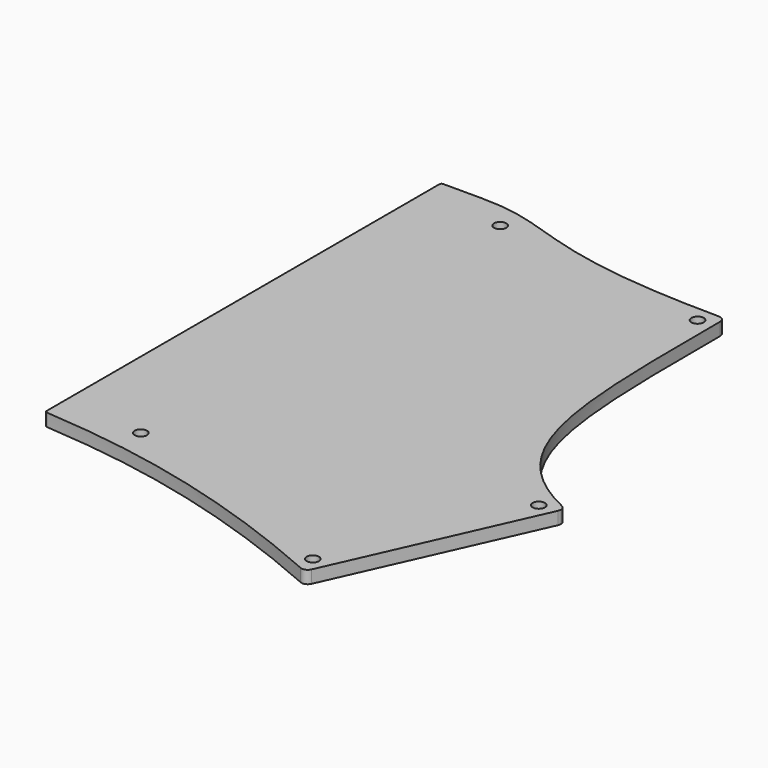
from build123d import *

# Parameters (mm, degrees)
PAD010_DEPTH    = 3
SKETCH045_R     = 1.45
POCKET015_DEPTH = 30
FILLET008_R     = 1.5
FILLET016_R     = 0.5


with BuildPart() as part:
    # Sketch034 → Pad010 (new body)
    with BuildSketch(Plane.XY):
        with BuildLine():
            add(Edge.make_bspline(
                [(76.2, -18.332251), (89.391212, -19.369368), (115.462334, -21.271145), (153.231854, -38.154949)],
                knots=[0, 0, 0, 0, 1, 1, 1, 1], degree=3))
            Line((153.231854, -38.154949), (175.310198, 11.234895))
            add(Edge.make_bspline(
                [(150.875, 88.9625), (150.875, 42.8625), (150.875, 22.157965), (175.310198, 11.234895)],
                knots=[0, 0, 0, 0, 1, 1, 1, 1], degree=3))
            add(Edge.make_bspline(
                [(85.725, 98.4875), (104.775, 98.4875), (104.775, 88.9625), (150.875, 88.9625)],
                knots=[0, 0, 0, 0, 1, 1, 1, 1], degree=3))
            Line((85.725, 98.4875), (76.2, 98.4875))
            Line((76.2, 98.4875), (76.2, -18.332251))
        make_face()
    extrude(amount=PAD010_DEPTH)

    # Sketch045 → Pocket015 (cut)
    with BuildSketch(Plane.XY):
        with Locations((-4.375, -4.375)):
            Circle(SKETCH045_R)
        with Locations((-4.375, 80.575)):
            Circle(SKETCH045_R)
        with Locations((151.401832, -33.366184)):
            Circle(SKETCH045_R)
        with Locations((170.521433, 9.404873)):
            Circle(SKETCH045_R)
        with Locations((147.25, 85.3375)):
            Circle(SKETCH045_R)
        with Locations((43.25, -13.9)):
            Circle(SKETCH045_R)
        with Locations((57.15, 92.085)):
            Circle(SKETCH045_R)
        with Locations((95.25, 92.085)):
            Circle(SKETCH045_R)
        with Locations((95.25, -13.9)):
            Circle(SKETCH045_R)
    extrude(amount=POCKET015_DEPTH, mode=Mode.SUBTRACT)

    # Fillet008
    fillet008_edges = [part.edges().sort_by_distance(p)[0] for p in [
        (150.875, 88.9625, 1.5),
        (175.310198, 11.234895, 1.5),
        (153.231854, -38.154949, 1.5),
    ]]
    fillet(fillet008_edges, radius=FILLET008_R)

    # Fillet016
    fillet016_edges = [part.edges().sort_by_distance(p)[0] for p in [
        (76.2, 98.4875, 1.5),
        (76.2, -18.332251, 1.5),
    ]]
    fillet(fillet016_edges, radius=FILLET016_R)


with BuildPart() as part_1:
    # Body009 placement: moved
    add(part.part.moved(Location((0, 0, -18))))


solid = part_1.part
